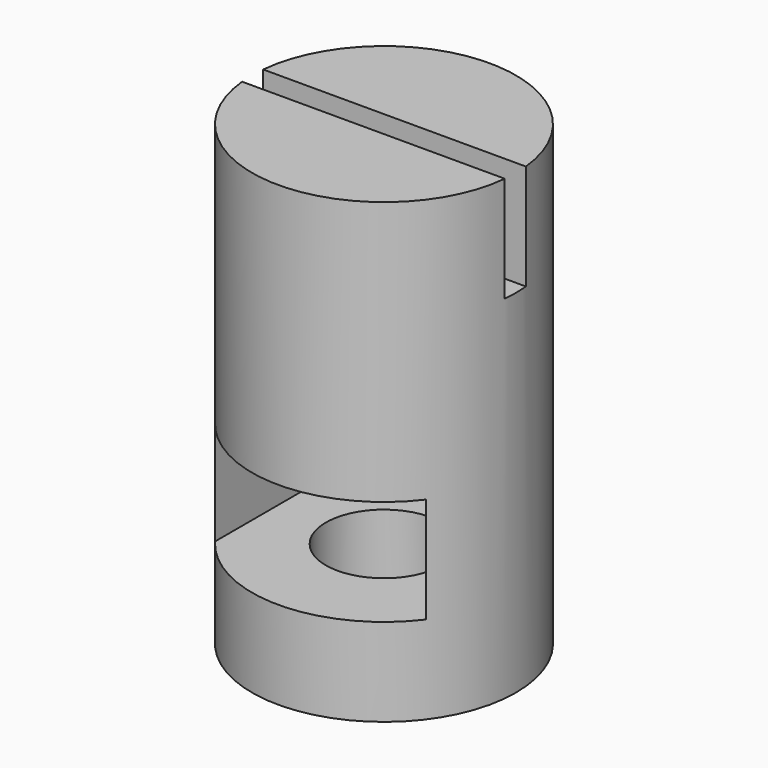
from build123d import *

# Parameters (mm, degrees)
PAD001_DEPTH = 6
SKETCH_R     = 7.5
PAD_DEPTH    = 26
SKETCH003_W  = 17.6
SKETCH003_H  = 1.5
POCKET_DEPTH = 6
SKETCH004_R  = 3.3
HOLE_DEPTH   = 18
HOLE_TIPS_R  = 3.3


with BuildPart() as body001:
    # Sketch002 → Pad001 (new body)
    with BuildSketch(Plane.XY.offset(5)):
        Polygon((6, 3.464102), (6, -26.535898), (-6, -26.535898), (-6, 3.464102), (0, 6.928203), align=None)
    extrude(amount=PAD001_DEPTH)


with BuildPart() as body:
    # Sketch → Pad (new body)
    with BuildSketch(Plane.XY):
        Circle(SKETCH_R)
    extrude(amount=PAD_DEPTH)

    # Boolean: cut Body001
    add(body001.part, mode=Mode.SUBTRACT)

    # Sketch003 (on Face3 of Boolean) → Pocket (cut)
    with BuildSketch(Plane.XY.offset(26)):
        Rectangle(SKETCH003_W, SKETCH003_H)
    extrude(amount=-POCKET_DEPTH, mode=Mode.SUBTRACT)

    # Sketch004 (on Face7 of Pocket) → Hole (cut)
    with BuildSketch(Plane(origin=(0, 0, 0), x_dir=(1, 0, 0), z_dir=(0, 0, -1))):
        Circle(SKETCH004_R)
    extrude(amount=-HOLE_DEPTH, mode=Mode.SUBTRACT)

    # Hole tips → Hole tip 1 section 0
    with BuildSketch(Plane(origin=(0, 0, 18), x_dir=(1, 0, 0), z_dir=(0, 0, -1)), mode=Mode.PRIVATE) as hole_tip_1_s0:
        Circle(HOLE_TIPS_R)
    loft([hole_tip_1_s0.sketch, Vertex(0, 0, 19.98284)], mode=Mode.SUBTRACT)


solid = body.part
